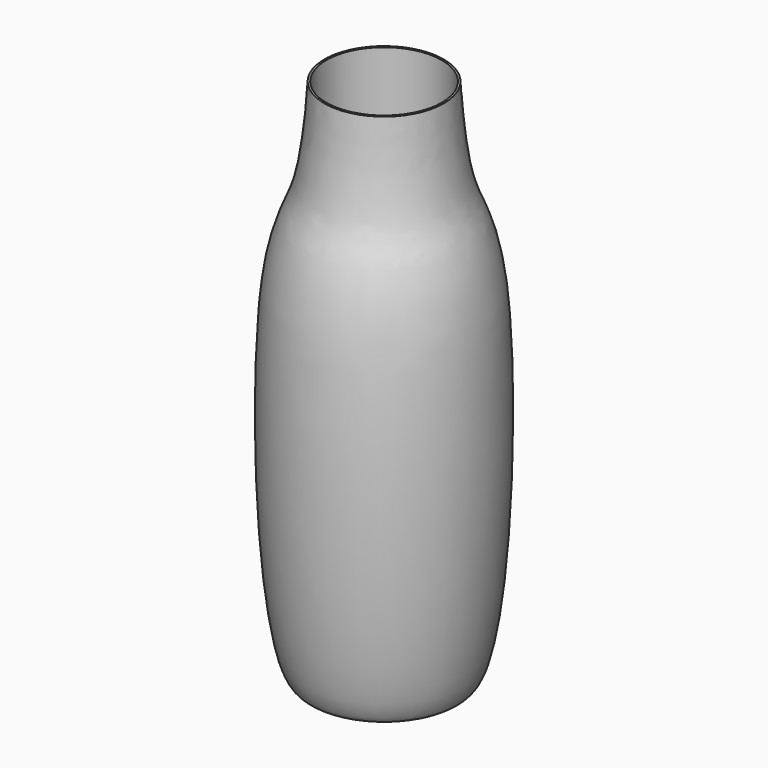
from build123d import *

# Parameters (mm, degrees)
F2_R     = 15.401451569
F3_DEPTH = 137.668


with BuildPart() as f1:
    # F0 (on Front) → F1 (revolve)
    with BuildSketch(Plane.XZ):
        with BuildLine():
            Line((0, 64.5787864923), (0, -68.8026919961))
            add(Edge.make_bspline(
                [(0, -68.8026919961), (3.4834083249, -68.4524738498), (10.4703776938, -67.7500114243), (25.9226630315, -92.2396428073), (29.7436855201, 23.816461978), (17.8846554651, 37.7367400235), (16.5875467663, 55.5421626145), (15.9292370081, 64.5787864923)],
                knots=[0, 0, 0, 0, 0.1242090767, 0.2491367458, 0.6235332798, 0.808935276, 1, 1, 1, 1], degree=3))
            Line((15.9292370081, 64.5787864923), (0, 64.5787864923))
        make_face()
    revolve(axis=Axis((0, 0, -2.1119527519), (0, 0, -1)))

    # F2 (on face) → F3 (cut)
    with BuildSketch(Plane.XY.offset(64.5787864923)):
        Circle(F2_R)
    extrude(amount=-F3_DEPTH, mode=Mode.SUBTRACT)


solid = f1.part
